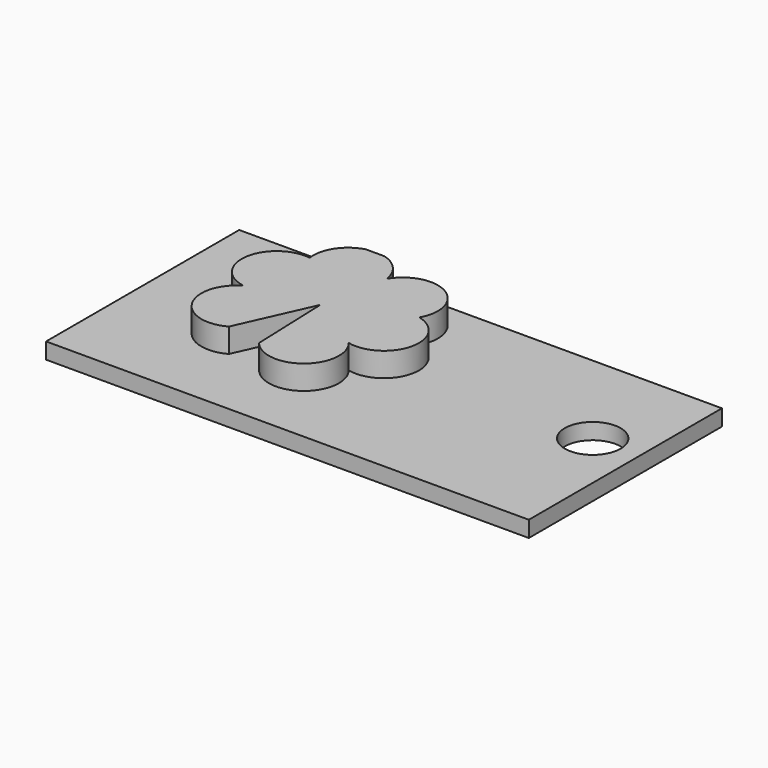
from build123d import *

# Parameters (mm, degrees)
F0_W     = 76.2
F0_H     = 38.1
F1_DEPTH = 2.54
F2_R     = 4.402581
F3_DEPTH = 21.082
F5_DEPTH = 3.81


with BuildPart() as f1:
    # F0 (on Top) → F1 (new body)
    with BuildSketch(Plane.XY):
        with Locations((-22.33921, -2.823238)):
            Rectangle(F0_W, F0_H)
    extrude(amount=F1_DEPTH)

    # F2 (on face) → F3 (cut)
    with BuildSketch(Plane.XY.offset(2.54)):
        with Locations((8.346367, 0)):
            Circle(F2_R)
    extrude(amount=-F3_DEPTH, mode=Mode.SUBTRACT)

    # F4 (on face) → F5 (join)
    with BuildSketch(Plane.XY.offset(2.54)):
        with BuildLine():
            Line((-33.514785, 11.699406), (-35.571453, 1.141185))
            Line((-35.571453, 1.141185), (-23.946188, 6.15845))
            ThreePointArc((-23.946188, 6.15845), (-25.975231, 13.68694), (-33.514785, 11.699406))
        make_face()
        with BuildLine():
            Line((-35.571453, 1.141185), (-26.47813, -4.604892))
            ThreePointArc((-26.47813, -4.604892), (-19.860057, -0.482237), (-23.946188, 6.15845))
            Line((-23.946188, 6.15845), (-35.571453, 1.141185))
        make_face()
        with BuildLine():
            Line((-35.571453, 1.141185), (-35.112303, -11.512231))
            ThreePointArc((-35.112303, -11.512231), (-27.360523, -12.351928), (-26.47813, -4.604892))
            Line((-26.47813, -4.604892), (-35.571453, 1.141185))
        make_face()
        with BuildLine():
            Line((-40.746415, -10.414745), (-35.571453, 1.141185))
            Line((-35.571453, 1.141185), (-46.156678, -0.771649))
            ThreePointArc((-46.156678, -0.771649), (-48.246604, -8.283465), (-40.746415, -10.414745))
        make_face()
        with BuildLine():
            Line((-46.156678, -0.771649), (-35.571453, 1.141185))
            Line((-35.571453, 1.141185), (-44.463545, 10.155088))
            ThreePointArc((-44.463545, 10.155088), (-50.743462, 5.533635), (-46.156678, -0.771649))
        make_face()
        with BuildLine():
            Line((-44.463545, 10.155088), (-35.571453, 1.141185))
            Line((-35.571453, 1.141185), (-33.514785, 11.699406))
            ThreePointArc((-33.514785, 11.699406), (-34.841828, 14.557803), (-37.515037, 16.226762))
            Line((-37.515037, 16.226762), (-40.454786, 16.226762))
            ThreePointArc((-40.454786, 16.226762), (-43.598668, 13.94327), (-44.463545, 10.155088))
        make_face()
    extrude(amount=F5_DEPTH)


solid = f1.part
